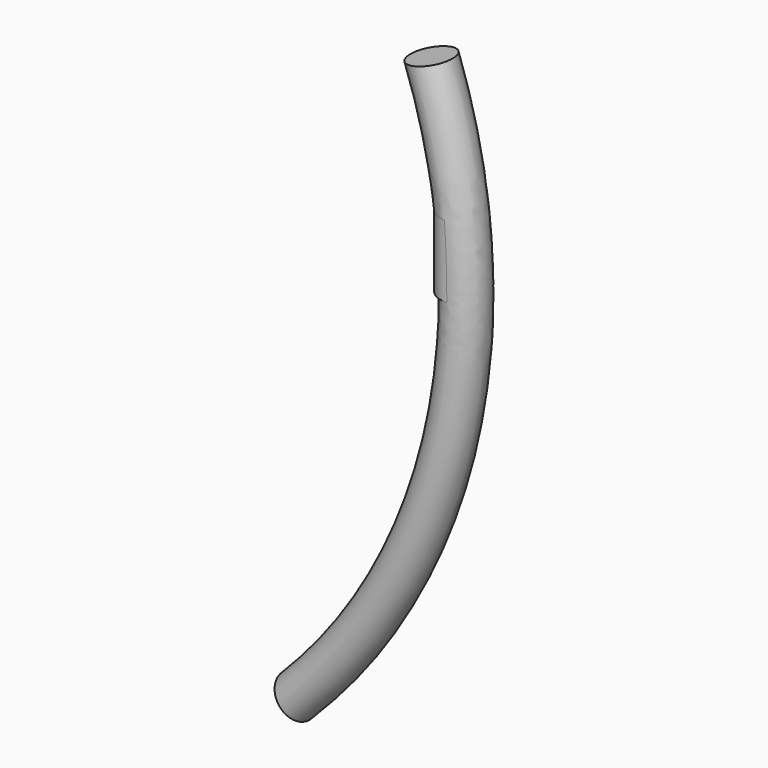
from build123d import *

# Parameters (mm, degrees)
F1_R      = 7.5
F2_DEPTH  = 25
F2_FACE_R = 7.5


with BuildPart() as f2:
    # F1 (on Top) → F2 (new body)
    with BuildSketch(Plane.XY):
        with Locations((200, 0)):
            Circle(F1_R)
    extrude(amount=F2_DEPTH)

    # F3: sweep along a path in F0
    with BuildLine(Plane.XZ) as f3_path:
        ThreePointArc((141.4213562373, -141.4213562373), (195.259201424, -43.2879227876), (187.9385241572, 68.4040286651))
    # F2_face (on face) → F3 (sweep)
    with BuildSketch(Plane(origin=(200, 0, 25), x_dir=(1, 0, 0), z_dir=(0, 0, 1))):
        Circle(F2_FACE_R)
    sweep(path=f3_path.line)


solid = f2.part
